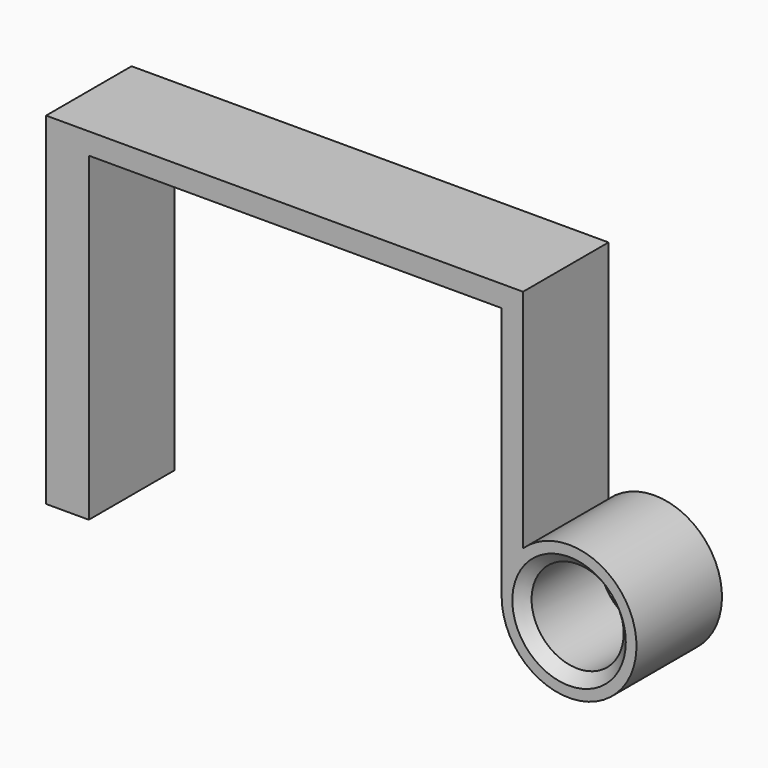
from build123d import *

# Parameters (mm, degrees)
F0_R     = 4.308856
F1_DEPTH = 10
F2_SIZE  = 1


with BuildPart() as f1:
    # F0 (on Front) → F1 (new body)
    with BuildSketch(Plane.XZ):
        with BuildLine():
            Line((-20.684209, 0), (-16.684209, 0))
            Line((-16.684209, 0), (-16.684209, 30))
            Line((-16.684209, 30), (21.947369, 30))
            Line((21.947369, 30), (21.947369, 6.252269))
            ThreePointArc((21.947369, 6.252269), (34.043522, 3.740525), (23.947369, 10.86046))
            Line((23.947369, 10.86046), (23.947369, 32))
            Line((23.947369, 32), (-20.684209, 32))
            Line((-20.684209, 32), (-20.684209, 0))
        make_face()
        with Locations((28.256224, 6.252269)):
            Circle(F0_R, mode=Mode.SUBTRACT)
    extrude(amount=F1_DEPTH)

    # F2
    f2_edges = [f1.edges().sort_by_distance(p)[0] for p in [
        (23.947369, -10, 6.252269),
        (23.947369, 0, 6.252269),
    ]]
    chamfer(f2_edges, length=F2_SIZE)


solid = f1.part
